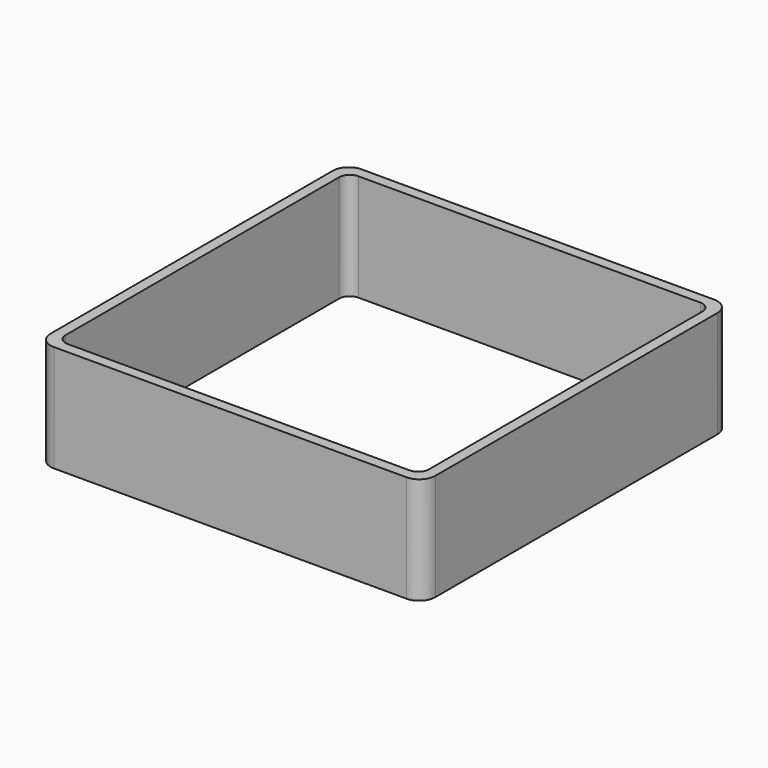
from build123d import *

# Parameters (mm, degrees)
EXTRUDE_DEPTH = 50


with BuildPart() as part:
    # Sketch → Extrude (new body)
    with BuildSketch(Plane.XY):
        with BuildLine():
            Line((-82.5, 90), (82.5, 90))
            ThreePointArc((90, 82.5), (87.803301, 87.803301), (82.5, 90))
            Line((90, 82.5), (90, -82.5))
            ThreePointArc((82.5, -90), (87.803301, -87.803301), (90, -82.5))
            Line((82.5, -90), (-82.5, -90))
            ThreePointArc((-90, -82.5), (-87.803301, -87.803301), (-82.5, -90))
            Line((-90, -82.5), (-90, 82.5))
            ThreePointArc((-82.5, 90), (-87.803301, 87.803301), (-90, 82.5))
        make_face()
        with BuildLine():
            Line((-80, 85), (80, 85))
            ThreePointArc((85, 80), (83.535534, 83.535534), (80, 85))
            Line((85, 80), (85, -80))
            ThreePointArc((80, -85), (83.535534, -83.535534), (85, -80))
            Line((80, -85), (-80, -85))
            ThreePointArc((-85, -80), (-83.535534, -83.535534), (-80, -85))
            Line((-85, -80), (-85, 80))
            ThreePointArc((-80, 85), (-83.535534, 83.535534), (-85, 80))
        make_face(mode=Mode.SUBTRACT)
    extrude(amount=EXTRUDE_DEPTH)


solid = part.part
